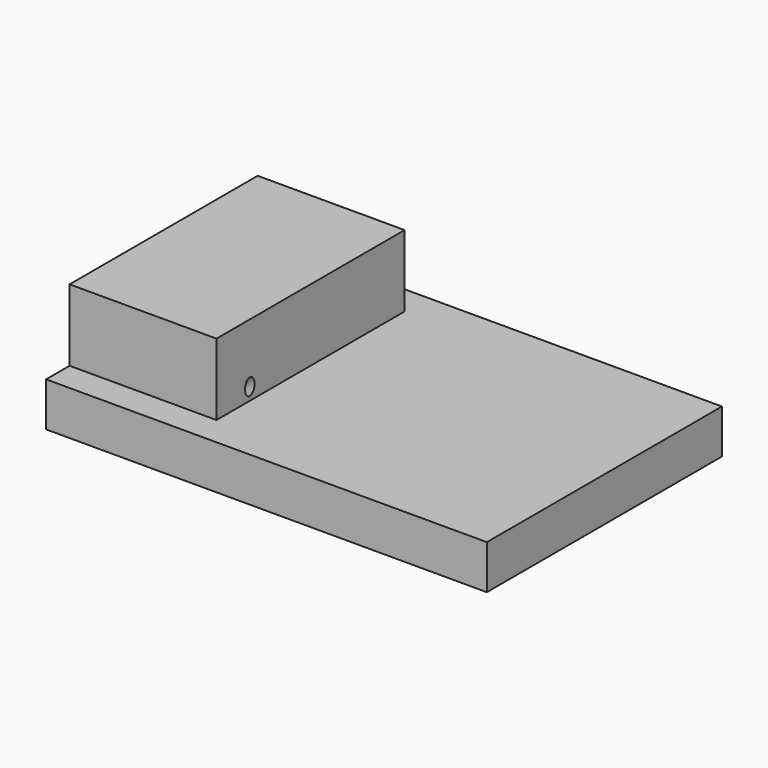
from build123d import *

# Parameters (mm, degrees)
F0_W     = 150
F0_H     = 100
F1_DEPTH = 15
F2_W     = 50
F2_H     = 80
F3_DEPTH = 24.4
F5_R     = 2
F6_DEPTH = 64.2


with BuildPart() as f1:
    # F0 (on Top) → F1 (new body)
    with BuildSketch(Plane.XY):
        Rectangle(F0_W, F0_H)
    extrude(amount=F1_DEPTH)

    # F2 (on face) → F3 (join)
    with BuildSketch(Plane.XY.offset(15)):
        with Locations((-50, 0)):
            Rectangle(F2_W, F2_H)
    extrude(amount=F3_DEPTH)

    # F5 (on face) → F6 (cut)
    with BuildSketch(Plane(origin=(7.2, 0, 7.2), x_dir=(0, -1, 0), z_dir=(-0.707107, 0, -0.707107))):
        with Locations((25.850689, 31.300105)):
            Circle(F5_R)
    extrude(amount=F6_DEPTH, mode=Mode.SUBTRACT)


solid = f1.part
